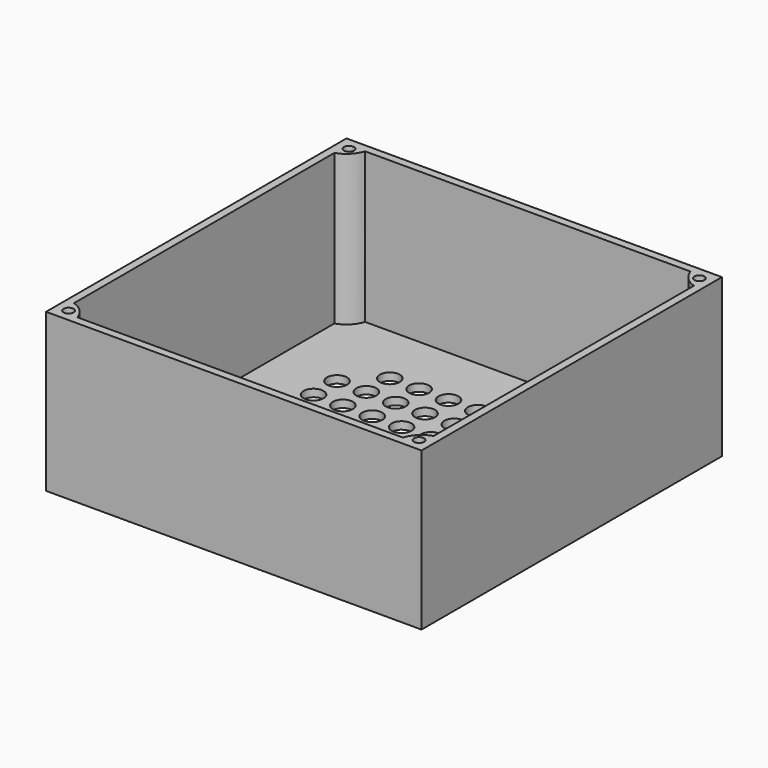
from build123d import *

# Parameters (mm, degrees)
SKETCH_W     = 150
SKETCH_H     = 150
SKETCH_R     = 4
SKETCH_R_2   = 4.1
PAD_DEPTH    = 3
SKETCH001_W  = 150
SKETCH001_H  = 150
PAD001_DEPTH = 60
SKETCH002_R  = 2
POCKET_DEPTH = 10


with BuildPart() as part:
    # Sketch → Pad (new body)
    with BuildSketch(Plane.XY):
        Rectangle(SKETCH_W, SKETCH_H)
        with Locations((-35.17664, 46.860641)):
            Circle(SKETCH_R, mode=Mode.SUBTRACT)
        with Locations((-23.457463, 46.865997)):
            Circle(SKETCH_R, mode=Mode.SUBTRACT)
        with Locations((-11.738286, 46.871353)):
            Circle(SKETCH_R, mode=Mode.SUBTRACT)
        with Locations((-0.019109, 46.876709)):
            Circle(SKETCH_R, mode=Mode.SUBTRACT)
        with Locations((11.700068, 46.882065)):
            Circle(SKETCH_R, mode=Mode.SUBTRACT)
        with Locations((23.419245, 46.887421)):
            Circle(SKETCH_R, mode=Mode.SUBTRACT)
        with Locations((35.138422, 46.892777)):
            Circle(SKETCH_R, mode=Mode.SUBTRACT)
        with Locations((-46.892776, 35.136107)):
            Circle(SKETCH_R, mode=Mode.SUBTRACT)
        with Locations((-35.173599, 35.141463)):
            Circle(SKETCH_R, mode=Mode.SUBTRACT)
        with Locations((-23.454422, 35.146819)):
            Circle(SKETCH_R, mode=Mode.SUBTRACT)
        with Locations((-11.735245, 35.152175)):
            Circle(SKETCH_R, mode=Mode.SUBTRACT)
        with Locations((-0.016068, 35.157531)):
            Circle(SKETCH_R, mode=Mode.SUBTRACT)
        with Locations((11.703109, 35.162887)):
            Circle(SKETCH_R, mode=Mode.SUBTRACT)
        with Locations((23.422286, 35.168243)):
            Circle(SKETCH_R, mode=Mode.SUBTRACT)
        with Locations((35.141463, 35.173599)):
            Circle(SKETCH_R, mode=Mode.SUBTRACT)
        with Locations((46.86064, 35.178955)):
            Circle(SKETCH_R, mode=Mode.SUBTRACT)
        with Locations((-46.88742, 23.41693)):
            Circle(SKETCH_R, mode=Mode.SUBTRACT)
        with Locations((-35.168243, 23.422286)):
            Circle(SKETCH_R, mode=Mode.SUBTRACT)
        with Locations((-23.449066, 23.427642)):
            Circle(SKETCH_R, mode=Mode.SUBTRACT)
        with Locations((-11.729889, 23.432998)):
            Circle(SKETCH_R, mode=Mode.SUBTRACT)
        with Locations((-0.010712, 23.438354)):
            Circle(SKETCH_R, mode=Mode.SUBTRACT)
        with Locations((11.708465, 23.44371)):
            Circle(SKETCH_R, mode=Mode.SUBTRACT)
        with Locations((23.427642, 23.449066)):
            Circle(SKETCH_R, mode=Mode.SUBTRACT)
        with Locations((35.146819, 23.454422)):
            Circle(SKETCH_R, mode=Mode.SUBTRACT)
        with Locations((46.865996, 23.459778)):
            Circle(SKETCH_R, mode=Mode.SUBTRACT)
        with Locations((-46.882064, 11.697753)):
            Circle(SKETCH_R, mode=Mode.SUBTRACT)
        with Locations((-35.162887, 11.703109)):
            Circle(SKETCH_R, mode=Mode.SUBTRACT)
        with Locations((-23.44371, 11.708465)):
            Circle(SKETCH_R, mode=Mode.SUBTRACT)
        with Locations((-11.724533, 11.713821)):
            Circle(SKETCH_R, mode=Mode.SUBTRACT)
        with Locations((-0.005356, 11.719177)):
            Circle(SKETCH_R, mode=Mode.SUBTRACT)
        with Locations((11.713821, 11.724533)):
            Circle(SKETCH_R, mode=Mode.SUBTRACT)
        with Locations((23.432998, 11.729889)):
            Circle(SKETCH_R, mode=Mode.SUBTRACT)
        with Locations((35.152175, 11.735245)):
            Circle(SKETCH_R, mode=Mode.SUBTRACT)
        with Locations((46.871352, 11.740601)):
            Circle(SKETCH_R, mode=Mode.SUBTRACT)
        with Locations((-46.876708, -0.021424)):
            Circle(SKETCH_R, mode=Mode.SUBTRACT)
        with Locations((-35.157531, -0.016068)):
            Circle(SKETCH_R, mode=Mode.SUBTRACT)
        with Locations((-23.438354, -0.010712)):
            Circle(SKETCH_R, mode=Mode.SUBTRACT)
        with Locations((-11.719177, -0.005356)):
            Circle(SKETCH_R, mode=Mode.SUBTRACT)
        Circle(SKETCH_R, mode=Mode.SUBTRACT)
        with Locations((11.719177, 0.005356)):
            Circle(SKETCH_R, mode=Mode.SUBTRACT)
        with Locations((23.438354, 0.010712)):
            Circle(SKETCH_R, mode=Mode.SUBTRACT)
        with Locations((35.157531, 0.016068)):
            Circle(SKETCH_R, mode=Mode.SUBTRACT)
        with Locations((46.876708, 0.021424)):
            Circle(SKETCH_R, mode=Mode.SUBTRACT)
        with Locations((-46.871352, -11.740601)):
            Circle(SKETCH_R, mode=Mode.SUBTRACT)
        with Locations((-35.152175, -11.735245)):
            Circle(SKETCH_R, mode=Mode.SUBTRACT)
        with Locations((-23.432998, -11.729889)):
            Circle(SKETCH_R, mode=Mode.SUBTRACT)
        with Locations((-11.713821, -11.724533)):
            Circle(SKETCH_R, mode=Mode.SUBTRACT)
        with Locations((0.005356, -11.719177)):
            Circle(SKETCH_R, mode=Mode.SUBTRACT)
        with Locations((11.724533, -11.713821)):
            Circle(SKETCH_R, mode=Mode.SUBTRACT)
        with Locations((23.44371, -11.708465)):
            Circle(SKETCH_R, mode=Mode.SUBTRACT)
        with Locations((35.162887, -11.703109)):
            Circle(SKETCH_R, mode=Mode.SUBTRACT)
        with Locations((46.882064, -11.697753)):
            Circle(SKETCH_R, mode=Mode.SUBTRACT)
        with Locations((-46.865996, -23.459778)):
            Circle(SKETCH_R, mode=Mode.SUBTRACT)
        with Locations((-35.146819, -23.454422)):
            Circle(SKETCH_R, mode=Mode.SUBTRACT)
        with Locations((-23.427642, -23.449066)):
            Circle(SKETCH_R, mode=Mode.SUBTRACT)
        with Locations((-11.708465, -23.44371)):
            Circle(SKETCH_R, mode=Mode.SUBTRACT)
        with Locations((0.010712, -23.438354)):
            Circle(SKETCH_R, mode=Mode.SUBTRACT)
        with Locations((11.729889, -23.432998)):
            Circle(SKETCH_R, mode=Mode.SUBTRACT)
        with Locations((23.449066, -23.427642)):
            Circle(SKETCH_R, mode=Mode.SUBTRACT)
        with Locations((35.168243, -23.422286)):
            Circle(SKETCH_R, mode=Mode.SUBTRACT)
        with Locations((46.88742, -23.41693)):
            Circle(SKETCH_R, mode=Mode.SUBTRACT)
        with Locations((-46.86064, -35.178955)):
            Circle(SKETCH_R, mode=Mode.SUBTRACT)
        with Locations((-35.141463, -35.173599)):
            Circle(SKETCH_R, mode=Mode.SUBTRACT)
        with Locations((-23.422286, -35.168243)):
            Circle(SKETCH_R, mode=Mode.SUBTRACT)
        with Locations((-11.703109, -35.162887)):
            Circle(SKETCH_R, mode=Mode.SUBTRACT)
        with Locations((0.016068, -35.157531)):
            Circle(SKETCH_R, mode=Mode.SUBTRACT)
        with Locations((11.735245, -35.152175)):
            Circle(SKETCH_R, mode=Mode.SUBTRACT)
        with Locations((23.454422, -35.146819)):
            Circle(SKETCH_R, mode=Mode.SUBTRACT)
        with Locations((35.173599, -35.141463)):
            Circle(SKETCH_R, mode=Mode.SUBTRACT)
        with Locations((46.892776, -35.136107)):
            Circle(SKETCH_R, mode=Mode.SUBTRACT)
        with Locations((-35.136049, -46.892776)):
            Circle(SKETCH_R, mode=Mode.SUBTRACT)
        with Locations((-23.416872, -46.88742)):
            Circle(SKETCH_R, mode=Mode.SUBTRACT)
        with Locations((-11.697695, -46.882064)):
            Circle(SKETCH_R, mode=Mode.SUBTRACT)
        with Locations((0.021482, -46.876708)):
            Circle(SKETCH_R, mode=Mode.SUBTRACT)
        with Locations((11.740659, -46.871352)):
            Circle(SKETCH_R, mode=Mode.SUBTRACT)
        with Locations((23.459836, -46.865996)):
            Circle(SKETCH_R, mode=Mode.SUBTRACT)
        with Locations((35.179013, -46.86064)):
            Circle(SKETCH_R, mode=Mode.SUBTRACT)
        with Locations((-57, -57)):
            Circle(SKETCH_R_2, mode=Mode.SUBTRACT)
    extrude(amount=PAD_DEPTH)

    # Sketch001 (on DatumPlane) → Pad001 (join)
    with BuildSketch(Plane.XY.offset(3)):
        Rectangle(SKETCH001_W, SKETCH001_H)
        with BuildLine():
            Line((-65, 71.825478), (65, 71.825478))
            ThreePointArc((65, 71.825478), (67.581186, 67.581186), (71.825478, 65))
            Line((71.825478, 65), (71.825478, -65))
            ThreePointArc((71.825478, -65), (67.581186, -67.581186), (65, -71.825478))
            Line((65, -71.825478), (-65, -71.825478))
            ThreePointArc((-65, -71.825478), (-67.581186, -67.581186), (-71.825478, -65))
            Line((-71.825478, -65), (-71.825478, 65))
            ThreePointArc((-71.825478, 65), (-67.581186, 67.581186), (-65, 71.825478))
        make_face(mode=Mode.SUBTRACT)
    extrude(amount=PAD001_DEPTH)

    # Sketch002 (on DatumPlane) → Pocket (cut)
    with BuildSketch(Plane.XY.offset(63)):
        with Locations((-70, 70)):
            Circle(SKETCH002_R)
        with Locations((70, 70)):
            Circle(SKETCH002_R)
        with Locations((-70, -70)):
            Circle(SKETCH002_R)
        with Locations((70, -70)):
            Circle(SKETCH002_R)
    extrude(amount=-POCKET_DEPTH, mode=Mode.SUBTRACT)


solid = part.part
